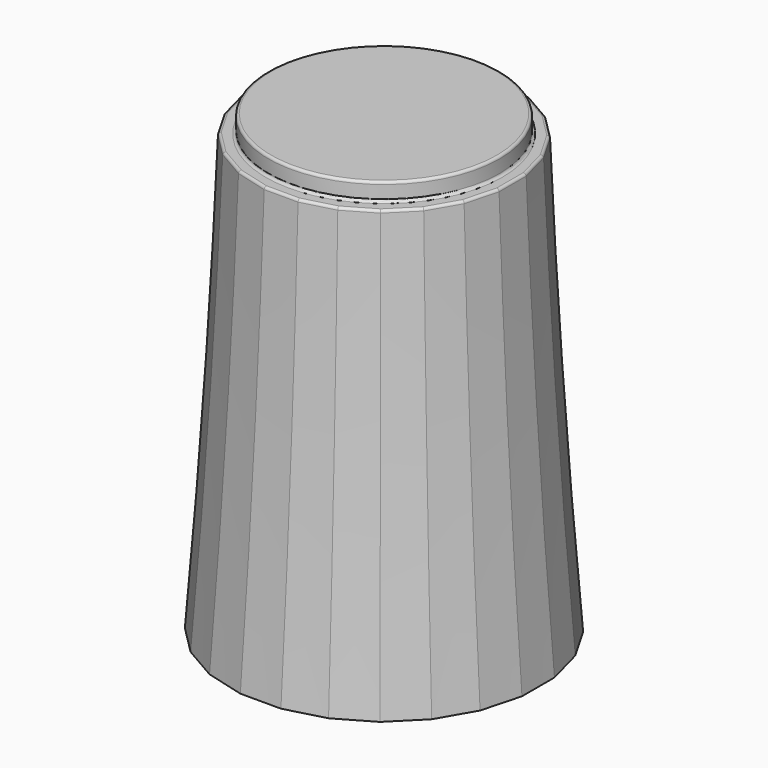
from build123d import *

# Parameters (mm, degrees)
SKETCH115_R     = 4.5
PAD028_DEPTH    = 0.7
SKETCH114_R     = 5
POCKET043_DEPTH = 1
SKETCH112_R     = 4.65
POCKET042_DEPTH = 1
POCKET044_DEPTH = 8
CHAMFER031_SIZE = 1.4
CHAMFER027_SIZE = 0.3
FILLET015_R     = 0.1


with BuildPart() as part:
    # Sketch117 → AdditiveLoft013 section 0
    with BuildSketch(Plane.XY):
        Polygon((-0.789915, 6), (-2.315914, 5.59111), (-3.684086, 4.801195), (-4.801195, 3.684086), (-5.59111, 2.315914), (-6, 0.789915), (-6, -0.789915), (-5.59111, -2.315914), (-4.801195, -3.684086), (-3.684086, -4.801195), (-2.315914, -5.59111), (-0.789915, -6), (0.789915, -6), (2.315914, -5.59111), (3.684086, -4.801195), (4.801195, -3.684086), (5.59111, -2.315914), (6, -0.789915), (6, 0.789915), (5.59111, 2.315914), (4.801195, 3.684086), (3.684086, 4.801195), (2.315914, 5.59111), (0.789915, 6), align=None)
    # Sketch116 → AdditiveLoft013 section 1
    with BuildSketch(Plane.XY.offset(7)):
        Polygon((-0.724089, 5.5), (-2.122921, 5.125184), (-3.377079, 4.401095), (-4.401095, 3.377079), (-5.125184, 2.122921), (-5.5, 0.724089), (-5.5, -0.724089), (-5.125184, -2.122921), (-4.401095, -3.377079), (-3.377079, -4.401095), (-2.122921, -5.125184), (-0.724089, -5.5), (0.724089, -5.5), (2.122921, -5.125184), (3.377079, -4.401095), (4.401095, -3.377079), (5.125184, -2.122921), (5.5, -0.724089), (5.5, 0.724089), (5.125184, 2.122921), (4.401095, 3.377079), (3.377079, 4.401095), (2.122921, 5.125184), (0.724089, 5.5), align=None)
    # Sketch118 → AdditiveLoft013 section 2
    with BuildSketch(Plane.XY.offset(17)):
        Polygon((-4.659258, 1.929928), (-5, 0.658262), (-5, -0.658262), (-4.659258, -1.929928), (-4.000996, -3.070072), (-3.070072, -4.000996), (-1.929928, -4.659258), (-0.658262, -5), (0.658262, -5), (1.929928, -4.659258), (3.070072, -4.000996), (4.000996, -3.070072), (4.659258, -1.929928), (5, -0.658262), (5, 0.658262), (4.659258, 1.929928), (4.000996, 3.070072), (3.070072, 4.000996), (1.929928, 4.659258), (0.658262, 5), (-0.658262, 5), (-1.929928, 4.659258), (-3.070072, 4.000996), (-4.000996, 3.070072), align=None)
    loft()

    # Sketch115 (on Face3 of AdditiveLoft013) → Pad028 (new body)
    with BuildSketch(Plane.XY.offset(17)):
        Circle(SKETCH115_R)
    extrude(amount=PAD028_DEPTH)

    # Sketch114 (on Face1 of Pad028) → Pocket043 (cut)
    with BuildSketch(Plane(origin=(0, 0, 0), x_dir=(1, 0, 0), z_dir=(0, 0, -1))):
        Circle(SKETCH114_R)
    extrude(amount=-POCKET043_DEPTH, mode=Mode.SUBTRACT)

    # Sketch112 (on Face28 of Pocket043) → Pocket042 (cut)
    with BuildSketch(Plane(origin=(0, 0, 1), x_dir=(1, 0, 0), z_dir=(0, 0, -1))):
        Circle(SKETCH112_R)
    extrude(amount=-POCKET042_DEPTH, mode=Mode.SUBTRACT)

    # Sketch113 (on Face32 of Pocket042) → Pocket044 (cut)
    with BuildSketch(Plane(origin=(0, 0, 2), x_dir=(1, 0, 0), z_dir=(0, 0, -1))):
        with BuildLine():
            ThreePointArc((-1.741757, 2.442598), (0, -3), (1.741757, 2.442598))
            Line((-1.741757, 2.442598), (1.741757, 2.442598))
        make_face()
    extrude(amount=-POCKET044_DEPTH, mode=Mode.SUBTRACT)

    # Chamfer031
    chamfer031_edges = [part.edges().sort_by_distance(p)[0] for p in [
        (0, 3, 2),
        (0, -2.442598, 2),
    ]]
    chamfer(chamfer031_edges, length=CHAMFER031_SIZE)

    # Chamfer027
    chamfer027_edges = [part.edges().sort_by_distance(p)[0] for p in [
        (-4.65, 0, 1),
    ]]
    chamfer(chamfer027_edges, length=CHAMFER027_SIZE)

    # Fillet015
    fillet015_edges = [part.edges().sort_by_distance(p)[0] for p in [
        (-4.5, 0, 17.7),
        (-4.829629, 1.294095, 17),
        (-4.330127, 2.5, 17),
        (-5, 0, 17),
        (-3.535534, 3.535534, 17),
        (-4.829629, -1.294095, 17),
        (-2.5, 4.330127, 17),
        (-4.330127, -2.5, 17),
        (-1.294095, 4.829629, 17),
        (-3.535534, -3.535534, 17),
        (0, 5, 17),
        (-2.5, -4.330127, 17),
        (1.294095, 4.829629, 17),
        (-1.294095, -4.829629, 17),
        (2.5, 4.330127, 17),
        (0, -5, 17),
        (3.535534, 3.535534, 17),
        (1.294095, -4.829629, 17),
        (4.330127, 2.5, 17),
        (2.5, -4.330127, 17),
        (4.829629, 1.294095, 17),
        (3.535534, -3.535534, 17),
        (5, 0, 17),
        (4.330127, -2.5, 17),
        (4.829629, -1.294095, 17),
        (-4.5, 0, 17),
    ]]
    fillet(fillet015_edges, radius=FILLET015_R)


solid = part.part
